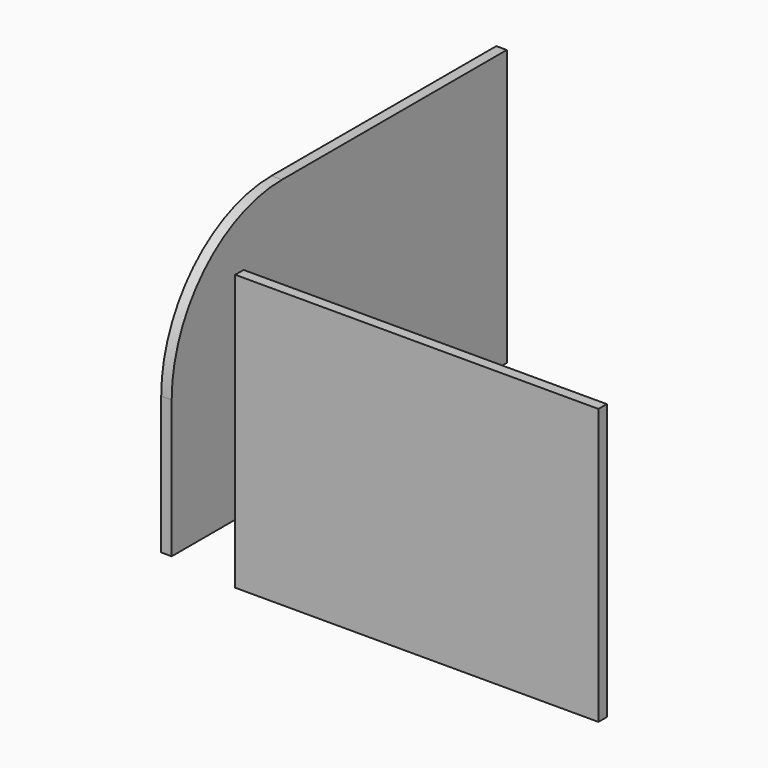
from build123d import *

# Parameters (mm, degrees)
F0_W     = 152
F0_H     = 100
F1_DEPTH = 3.8
F2_R     = 50
F3_W     = 131.8
F3_H     = 100
F4_DEPTH = 3.8


with BuildPart() as f1:
    # F0 (on Right) → F1 (new body)
    with BuildSketch(Plane.YZ):
        with Locations((76, 50)):
            Rectangle(F0_W, F0_H)
    extrude(amount=F1_DEPTH)

    # F2
    f2_edges = [f1.edges().sort_by_distance(p)[0] for p in [
        (1.9, 0, 100),
    ]]
    fillet(f2_edges, radius=F2_R)


with BuildPart() as f4:
    # F3 (on Front) → F4 (new body)
    with BuildSketch(Plane.XZ):
        with Locations((95.798899, 50)):
            Rectangle(F3_W, F3_H)
    extrude(amount=F4_DEPTH)


solid = Compound([f1.part, f4.part])
